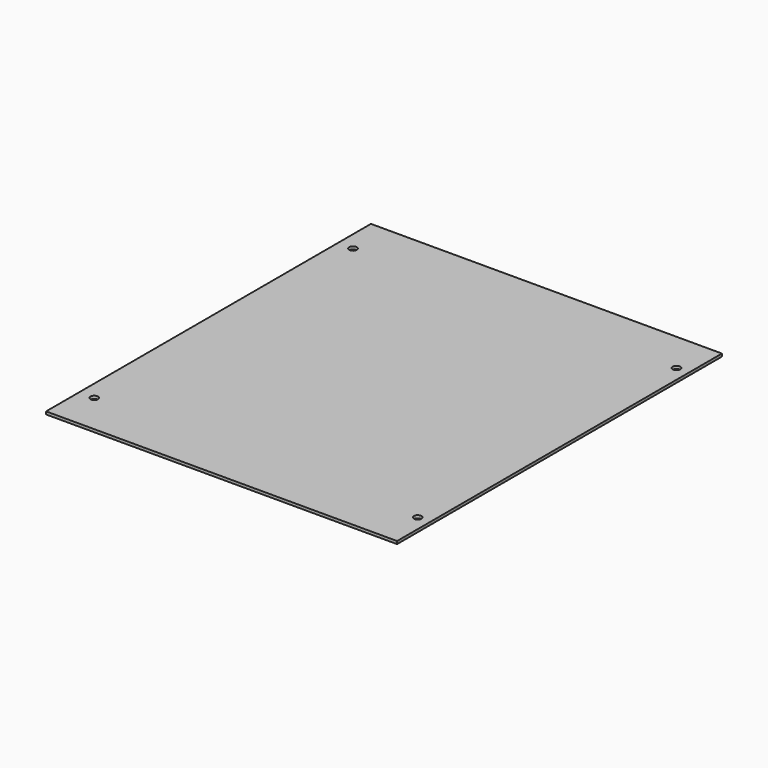
from build123d import *

# Parameters (mm, degrees)
CYLINDER003_R     = 2.75
CYLINDER003_DEPTH = 10
CYLINDER002_R     = 2.75
CYLINDER002_DEPTH = 10
CYLINDER001_R     = 2.75
CYLINDER001_DEPTH = 10
CYLINDER_R        = 2.75
CYLINDER_DEPTH    = 10
BOX_W             = 255
BOX_H             = 295
BOX_DEPTH         = 2


with BuildPart() as cylinder003:
    # Cylinder003 → Cylinder003 (new body)
    with BuildSketch(Plane(origin=(245, 265, -5), x_dir=(1, 0, 0), z_dir=(0, 0, 1))):
        Circle(CYLINDER003_R)
    extrude(amount=CYLINDER003_DEPTH)


with BuildPart() as cylinder002:
    # Cylinder002 → Cylinder002 (new body)
    with BuildSketch(Plane(origin=(245, 30, -5), x_dir=(1, 0, 0), z_dir=(0, 0, 1))):
        Circle(CYLINDER002_R)
    extrude(amount=CYLINDER002_DEPTH)


with BuildPart() as cylinder001:
    # Cylinder001 → Cylinder001 (new body)
    with BuildSketch(Plane(origin=(10, 265, -5), x_dir=(1, 0, 0), z_dir=(0, 0, 1))):
        Circle(CYLINDER001_R)
    extrude(amount=CYLINDER001_DEPTH)


with BuildPart() as cylinder:
    # Cylinder → Cylinder (new body)
    with BuildSketch(Plane(origin=(10, 30, -5), x_dir=(1, 0, 0), z_dir=(0, 0, 1))):
        Circle(CYLINDER_R)
    extrude(amount=CYLINDER_DEPTH)


with BuildPart() as bottom:
    # Box → Box (new body)
    with BuildSketch(Plane(origin=(-1, 0, 0), x_dir=(1, 0, 0), z_dir=(0, 0, 1))):
        with Locations((127.5, 147.5)):
            Rectangle(BOX_W, BOX_H)
    extrude(amount=BOX_DEPTH)

    # Cut: cut Cylinder
    add(cylinder.part, mode=Mode.SUBTRACT)

    # Cut001: cut Cylinder001
    add(cylinder001.part, mode=Mode.SUBTRACT)

    # Cut002: cut Cylinder002
    add(cylinder002.part, mode=Mode.SUBTRACT)

    # Cut003: cut Cylinder003
    add(cylinder003.part, mode=Mode.SUBTRACT)


solid = bottom.part
